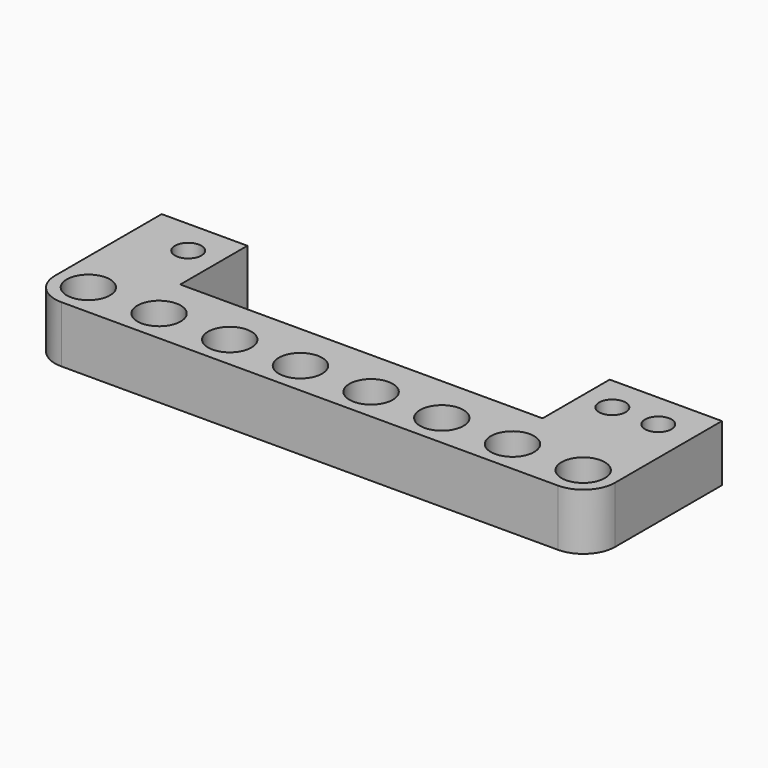
from build123d import *

# Parameters (mm, degrees)
F0_R     = 2.45
F0_R_2   = 1.5
F1_DEPTH = 6.4
F2_R     = 3.6


with BuildPart() as f1:
    # F0 (on Top) → F1 (new body)
    with BuildSketch(Plane.XY):
        Polygon((-22, 18.7), (-31.7, 18.7), (-31.7, 0), (-18.351344, 0), (-10.351344, 0), (31.7, 0), (31.7, 18.7), (19, 18.7), (19, 9.2), (-22, 9.2), align=None)
        with Locations((-28, 3.7)):
            Circle(F0_R, mode=Mode.SUBTRACT)
        with Locations((-20, 3.7)):
            Circle(F0_R, mode=Mode.SUBTRACT)
        with Locations((-12, 3.7)):
            Circle(F0_R, mode=Mode.SUBTRACT)
        with Locations((-4, 3.7)):
            Circle(F0_R, mode=Mode.SUBTRACT)
        with Locations((4, 3.7)):
            Circle(F0_R, mode=Mode.SUBTRACT)
        with Locations((12, 3.7)):
            Circle(F0_R, mode=Mode.SUBTRACT)
        with Locations((20, 3.7)):
            Circle(F0_R, mode=Mode.SUBTRACT)
        with Locations((28, 3.7)):
            Circle(F0_R, mode=Mode.SUBTRACT)
        with Locations((-25.5, 14.7)):
            Circle(F0_R_2, mode=Mode.SUBTRACT)
        with Locations((22.5, 14.7)):
            Circle(F0_R_2, mode=Mode.SUBTRACT)
        with Locations((27.7, 14.7)):
            Circle(F0_R_2, mode=Mode.SUBTRACT)
    extrude(amount=F1_DEPTH)

    # F2
    f2_edges = [f1.edges().sort_by_distance(p)[0] for p in [
        (-31.7, 0, 3.2),
        (31.7, 0, 3.2),
    ]]
    fillet(f2_edges, radius=F2_R)


solid = f1.part
